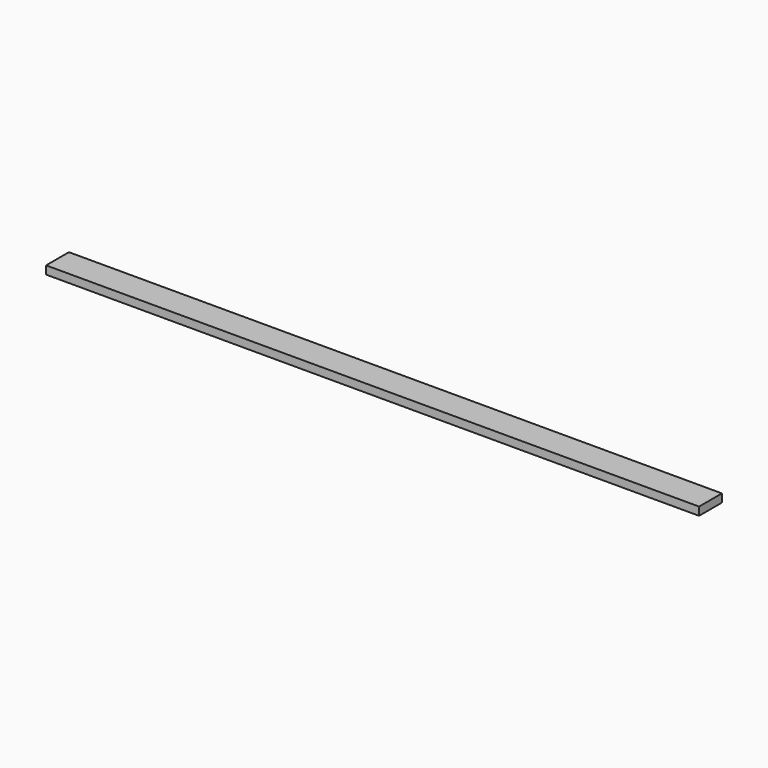
from build123d import *

# Parameters (mm, degrees)
SKETCH_W  = 1.6
SKETCH_H  = 0.07
PAD_DEPTH = 0.02


with BuildPart() as part:
    # Sketch → Pad (new body)
    with BuildSketch(Plane.XY):
        Rectangle(SKETCH_W, SKETCH_H)
    extrude(amount=PAD_DEPTH)


solid = part.part
